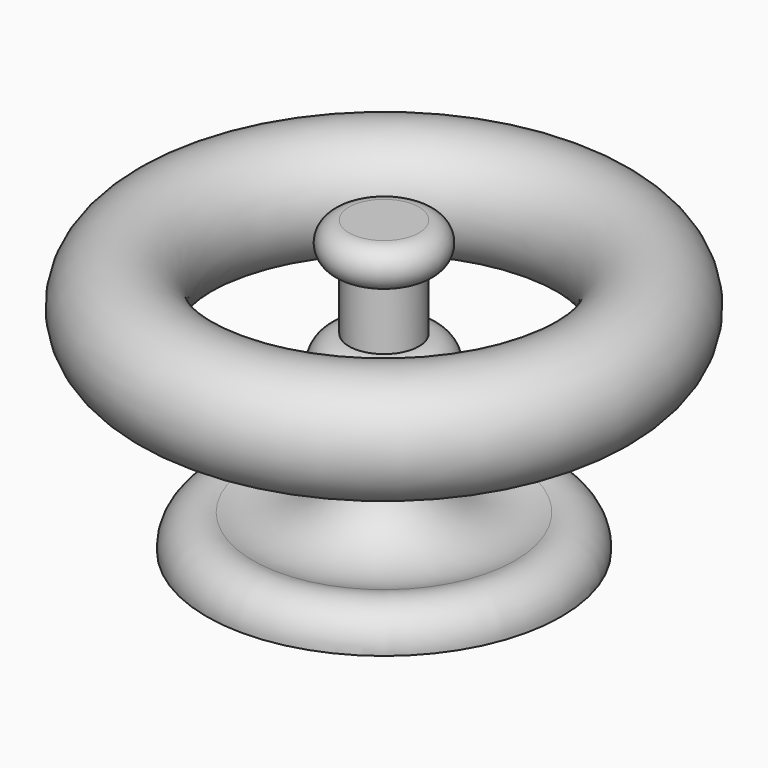
from build123d import *

# Parameters (mm, degrees)
F2_R = 13.620841


with BuildPart() as f1:
    # F0 (on Front) → F1 (revolve)
    with BuildSketch(Plane.XZ):
        with BuildLine():
            Line((8.5344, 71.170799), (0, 71.170799))
            Line((0, 71.170799), (0, 0))
            Line((0, 0), (43.2816, 0))
            ThreePointArc((43.2816, 0), (39.99262, 7.352571), (32.004006, 8.382001))
            ThreePointArc((32.004006, 8.382001), (16.058361, 10.071514), (8.5344, 24.231602))
            Line((8.5344, 24.231602), (8.5344, 33.375602))
            ThreePointArc((8.5344, 33.375602), (14.942129, 40.081201), (8.5344, 46.7868))
            Line((8.5344, 46.7868), (8.5344, 61.417203))
            ThreePointArc((8.5344, 61.417203), (13.411198, 66.294001), (8.5344, 71.170799))
        make_face()
    revolve(axis=Axis((0, 0, 36.2712), (0, 0, -1)))


with BuildPart() as f3:
    # F2 (on Right) → F3 (revolve)
    with BuildSketch(Plane.YZ):
        with Locations((-50.901599, 52.578002)):
            Circle(F2_R)
    revolve(axis=Axis((0, 0, 24.841202), (0, 0, -1)))


solid = Compound([f1.part, f3.part])
